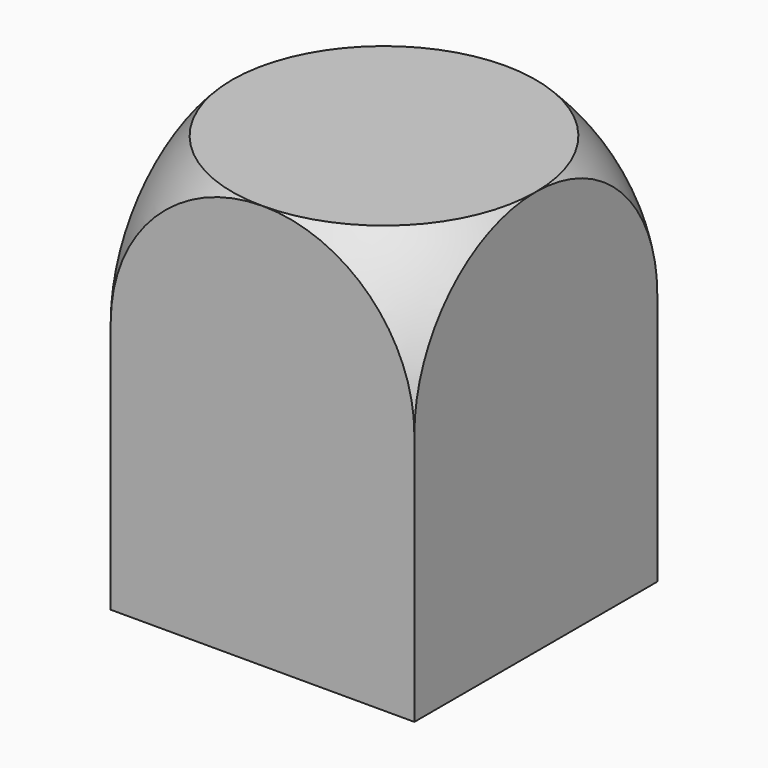
from build123d import *

# Parameters (mm, degrees)
F0_W     = 19.05
F0_H     = 19.05
F1_DEPTH = 25.4


with BuildPart() as f1:
    # F0 (on Top) → F1 (new body)
    with BuildSketch(Plane.XY):
        Rectangle(F0_W, F0_H)
    extrude(amount=-F1_DEPTH)

    # F3 (on 3pt) → F4 (revolve, cut)
    with BuildSketch(Plane(origin=(0, 0, 0), x_dir=(0.7071067812, 0.7071067812, 0), z_dir=(0.7071067812, -0.7071067812, 0))):
        with BuildLine():
            ThreePointArc((0, 3.9453841816), (9.525, 0), (13.4703841816, -9.525))
            Line((13.4703841816, -9.525), (16.0103841816, -9.525))
            Line((16.0103841816, -9.525), (16.0103841816, 6.4853841816))
            Line((16.0103841816, 6.4853841816), (0, 6.4853841816))
            Line((0, 6.4853841816), (0, 3.9453841816))
        make_face()
    revolve(axis=Axis((0, 0, -8.7556987966), (0, 0, -1)), mode=Mode.SUBTRACT)


solid = f1.part
